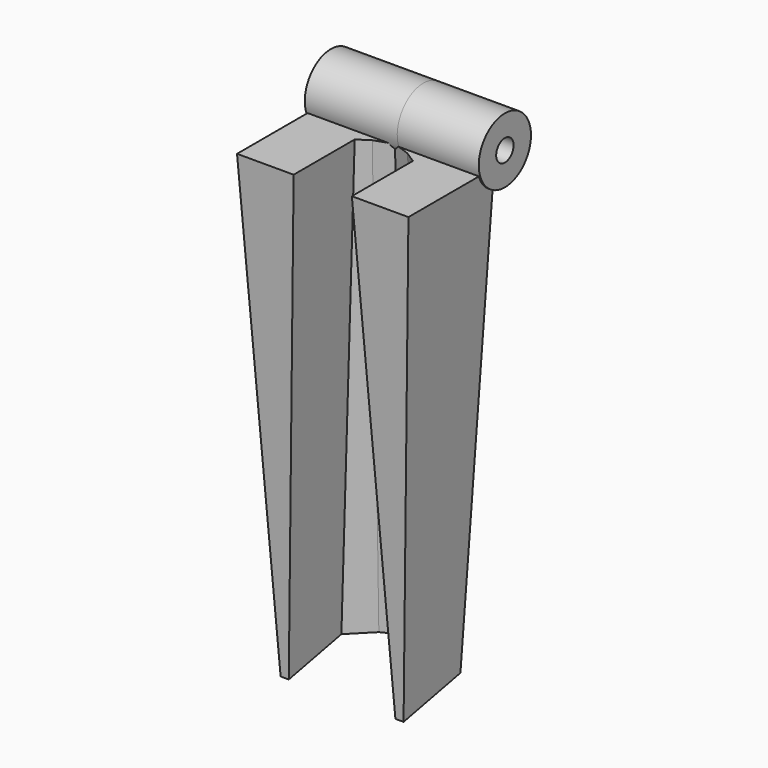
from build123d import *

# Parameters (mm, degrees)
F2_DEPTH       = 85
F2_TAPER       = -3
F4_DEPTH       = 1
F5_R           = 6
F5_R_2         = 2
F6_DEPTH       = 15
F6_DEPTH_BACK  = 17
F7_R           = 2
F8_DEPTH       = 25
F11_DEPTH      = 25
F11_DEPTH_BACK = 25


with BuildPart() as f2:
    # F0 (on Top) → F2 (new body)
    with BuildSketch(Plane.XY):
        Polygon((-1.5, 0), (0, 0), (0, 12), (4.6097722286, 15), (9.8068868127, 16.8), (15.0040013968, 15), (19.6137736254, 12), (19.6137736254, 0), (21.1137736254, 0), (21.1137736254, 12.8134892168), (15.668347165, 16.357325782), (10.2892993427, 18.2203376367), (9.8068868127, 18.3874193009), (9.3244742827, 18.2203376367), (3.9454264604, 16.357325782), (-1.5, 12.8134892168), align=None)
    extrude(amount=F2_DEPTH, taper=F2_TAPER)

    # F3 (on face) → F4 (join)
    with BuildSketch(Plane.XY.offset(85)):
        Polygon((8.8068868127, 12.08572318), (9.8068868127, 12.08572318), (10.8068868127, 12.08572318), (10.8068868127, 22.7553500917), (8.8068868127, 22.7553500917), align=None)
    extrude(amount=F4_DEPTH)

    # F5 (on face) → F6 (join, two sides)
    with BuildSketch(Plane.YZ.offset(10.8068868127)) as f6_sk:
        with Locations((17.4205366358, 87)):
            Circle(F5_R)
        with Locations((17.4205366358, 87)):
            Circle(F5_R_2, mode=Mode.SUBTRACT)
    extrude(amount=F6_DEPTH)
    extrude(f6_sk.sketch, amount=-F6_DEPTH_BACK)

    # F7 (on face) → F8 (cut)
    with BuildSketch(Plane.YZ.offset(25.8068868127)):
        with Locations((17.4205366358, 87)):
            Circle(F7_R)
    extrude(amount=-F8_DEPTH, mode=Mode.SUBTRACT)

    # F10 (on offset) → F11 (cut, two sides)
    with BuildSketch(Plane.YZ.offset(9.8)) as f11_sk:
        Polygon((20.4148828708, 4.3393173099), (0, 0), (20.4148828708, 0), align=None)
    extrude(amount=-F11_DEPTH, mode=Mode.SUBTRACT)
    extrude(f11_sk.sketch, amount=F11_DEPTH_BACK, mode=Mode.SUBTRACT)


solid = f2.part
